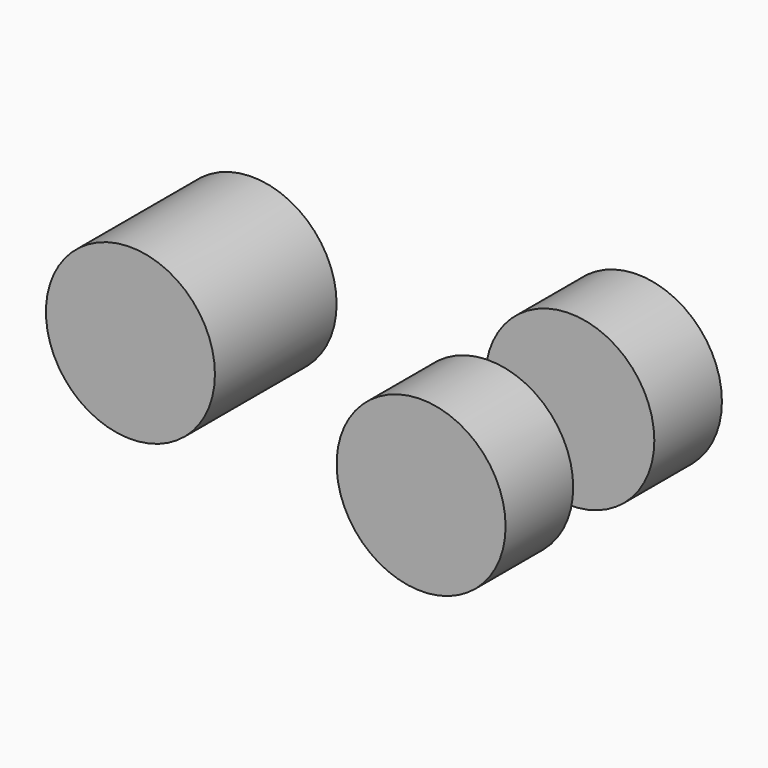
from build123d import *

# Parameters (mm, degrees)
CYLINDER001_R          = 2.5
CYLINDER001_DEPTH      = 2.5
CYLINDER001_ROLL_ANGLE = 90
CYLINDER002_R          = 2.5
CYLINDER002_DEPTH      = 2.5
CYLINDER002_ROLL_ANGLE = 90
CYLINDER_R             = 2.5
CYLINDER_DEPTH         = 4.5
CYLINDER_ROLL_ANGLE    = 90


with BuildPart() as cylinder001:
    # Cylinder001 → Cylinder001 (new body)
    with BuildSketch(Plane.XY):
        Circle(CYLINDER001_R)
    extrude(amount=CYLINDER001_DEPTH)


with BuildPart() as cylinder001_1:
    # Cylinder001 roll: moved
    add(cylinder001.part.rotate(Axis((0, 0, 0), (1, 0, 0)), CYLINDER001_ROLL_ANGLE))


with BuildPart() as cylinder001_2:
    # Cylinder001 placement: moved
    add(cylinder001_1.part.moved(Location((5, 4, 0))))


with BuildPart() as cylinder002:
    # Cylinder002 → Cylinder002 (new body)
    with BuildSketch(Plane.XY):
        Circle(CYLINDER002_R)
    extrude(amount=CYLINDER002_DEPTH)


with BuildPart() as cylinder002_1:
    # Cylinder002 roll: moved
    add(cylinder002.part.rotate(Axis((0, 0, 0), (1, 0, 0)), CYLINDER002_ROLL_ANGLE))


with BuildPart() as cylinder002_2:
    # Cylinder002 placement: moved
    add(cylinder002_1.part.moved(Location((5, -1.5, 0))))


with BuildPart() as axes_cutout003:
    # Cylinder → Cylinder (new body)
    with BuildSketch(Plane.XY):
        Circle(CYLINDER_R)
    extrude(amount=CYLINDER_DEPTH)


with BuildPart() as axes_cutout003_1:
    # Cylinder roll: moved
    add(axes_cutout003.part.rotate(Axis((0, 0, 0), (1, 0, 0)), CYLINDER_ROLL_ANGLE))


with BuildPart() as axes_cutout003_2:
    # Cylinder placement: moved
    add(axes_cutout003_1.part.moved(Location((-5, 2.25, 0))))

    # Fusion003: union Cylinder001, Cylinder002
    add(cylinder001_2.part)
    add(cylinder002_2.part)


solid = axes_cutout003_2.part
